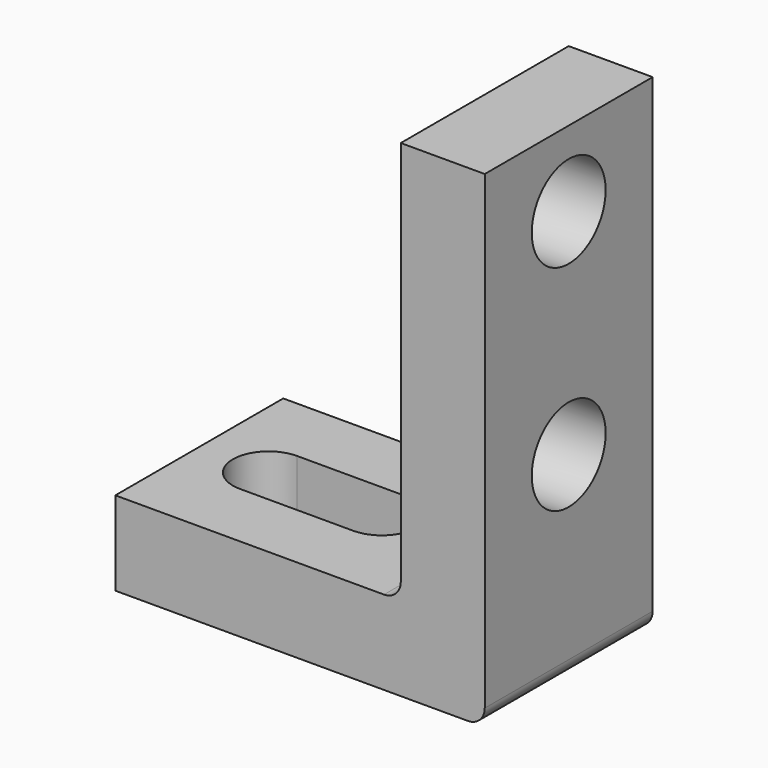
from build123d import *

# Parameters (mm, degrees)
F1_DEPTH = 25
F3_DEPTH = 10
F4_R     = 5.5
F5_DEPTH = 10
F6_R     = 2
F7_R     = 2


with BuildPart() as f1:
    # F0 (on Front) → F1 (new body)
    with BuildSketch(Plane.XZ):
        Polygon((10, 48), (0, 48), (0, 0), (-34, 0), (-34, -10), (10, -10), align=None)
    extrude(amount=F1_DEPTH)

    # F2 (on face) → F3 (cut)
    with BuildSketch(Plane(origin=(0, 0, -10), x_dir=(1, 0, 0), z_dir=(0, 0, -1))):
        with BuildLine():
            Line((-12.25, 16.75), (-25.75, 16.75))
            ThreePointArc((-25.75, 16.75), (-30, 12.5), (-25.75, 8.25))
            Line((-25.75, 8.25), (-12.25, 8.25))
            ThreePointArc((-12.25, 8.25), (-8, 12.5), (-12.25, 16.75))
        make_face()
    extrude(amount=-F3_DEPTH, mode=Mode.SUBTRACT)

    # F4 (on face) → F5 (cut)
    with BuildSketch(Plane.YZ.offset(10)):
        with Locations((-12.5, 13.5)):
            Circle(F4_R)
        with Locations((-12.5, 39)):
            Circle(F4_R)
    extrude(amount=-F5_DEPTH, mode=Mode.SUBTRACT)

    # F6
    f6_edges = [f1.edges().sort_by_distance(p)[0] for p in [
        (0, -12.5, 0),
    ]]
    fillet(f6_edges, radius=F6_R)

    # F7
    f7_edges = [f1.edges().sort_by_distance(p)[0] for p in [
        (10, -12.5, -10),
    ]]
    fillet(f7_edges, radius=F7_R)


solid = f1.part
